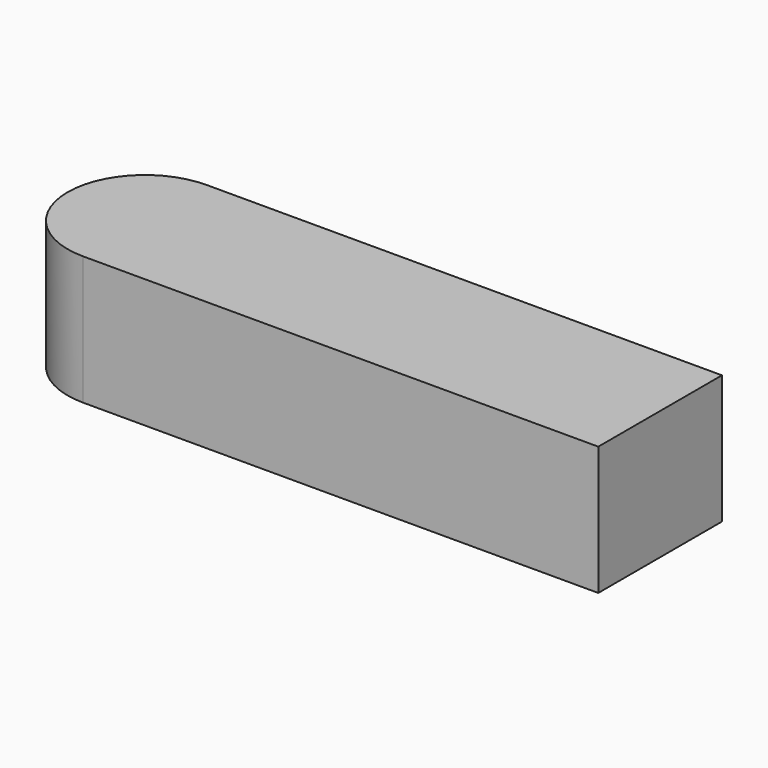
from build123d import *

# Parameters (mm, degrees)
F1_DEPTH = 25


with BuildPart() as f1:
    # F0 (on Top) → F1 (new body)
    with BuildSketch(Plane.XY):
        with BuildLine():
            ThreePointArc((-33.639251, -11.718637), (-38.03265, -1.112035), (-48.639251, 3.281363))
            Line((-48.639251, 3.281363), (-48.639251, -26.718637))
            ThreePointArc((-48.639251, -26.718637), (-38.03265, -22.325239), (-33.639251, -11.718637))
        make_face()
        with BuildLine():
            Line((51.360749, 3.281363), (-48.639251, 3.281363))
            ThreePointArc((-48.639251, 3.281363), (-38.03265, -1.112035), (-33.639251, -11.718637))
            ThreePointArc((-33.639251, -11.718637), (-38.03265, -22.325239), (-48.639251, -26.718637))
            Line((-48.639251, -26.718637), (51.360749, -26.718637))
            Line((51.360749, -26.718637), (51.360749, 3.281363))
        make_face()
        with BuildLine():
            Line((-48.639251, -26.718637), (-48.639251, 3.281363))
            ThreePointArc((-48.639251, 3.281363), (-63.639251, -11.718637), (-48.639251, -26.718637))
        make_face()
    extrude(amount=F1_DEPTH)


solid = f1.part
